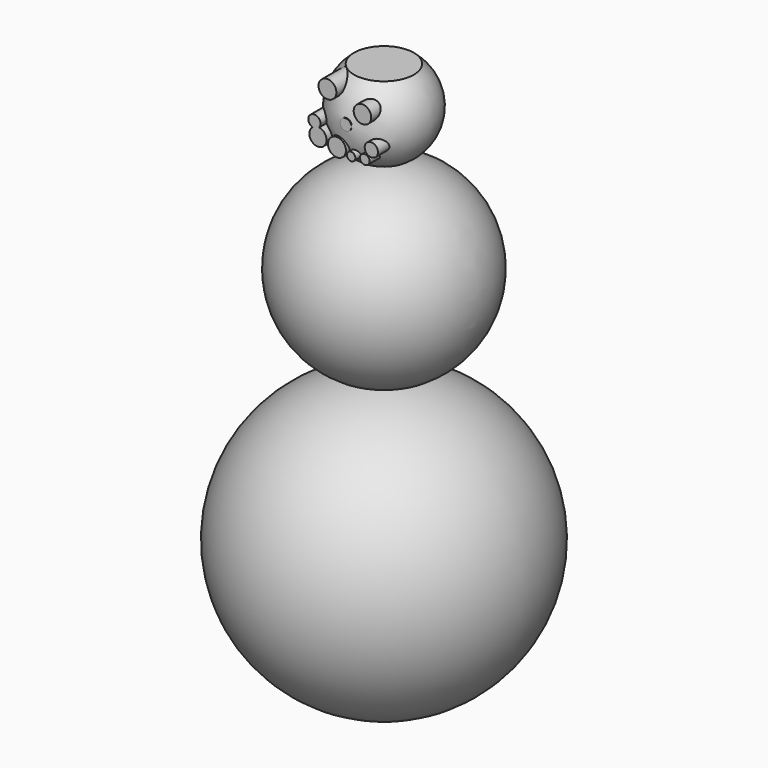
from build123d import *

# Parameters (mm, degrees)
F2_R     = 2.3340680492
F2_R_2   = 2.3765081856
F2_R_3   = 1.2745108739
F2_R_4   = 1.1178169875
F2_R_5   = 2.3922293989
F2_R_6   = 1.767423745
F3_DEPTH = 12.7
F4_R     = 1.4997579314
F5_DEPTH = 12.7


with BuildPart() as f1:
    # F0 (on Front) → F1 (revolve)
    with BuildSketch(Plane.XZ):
        with BuildLine():
            Line((0, 101.6), (0, 88.9))
            ThreePointArc((0, 88.9), (1.3241588609, 88.9692200038), (2.6338833467, 89.1761254628))
            ThreePointArc((2.6338833467, 89.1761254628), (12.3538464369, 98.6550928344), (7.9553518202, 111.4996150136))
            Line((7.9553518202, 111.4996150136), (0, 111.4996150136))
            Line((0, 111.4996150136), (0, 101.6))
        make_face()
        with BuildLine():
            Line((0, 63.5), (0, 38.1))
            ThreePointArc((0, 38.1), (1.6292774194, 38.1523086832), (3.2518441808, 38.3090192842))
            ThreePointArc((3.2518441808, 38.3090192842), (25.3980950451, 63.8110756831), (2.6338833467, 88.7630690637))
            ThreePointArc((2.6338833467, 88.7630690637), (1.3187201717, 88.8657441663), (0, 88.9))
            Line((0, 88.9), (0, 63.5))
        make_face()
        with BuildLine():
            Line((0, 0), (0, -38.1))
            ThreePointArc((0, -38.1), (38.0652275084, -1.6274073662), (3.2518441808, 37.9609735047))
            ThreePointArc((3.2518441808, 37.9609735047), (1.6274073662, 38.0652275084), (0, 38.1))
            Line((0, 38.1), (0, 0))
        make_face()
        with BuildLine():
            ThreePointArc((0, 38.1), (1.6274073662, 38.0652275084), (3.2518441808, 37.9609735047))
            Line((3.2518441808, 37.9609735047), (3.2518441808, 38.3090192842))
            ThreePointArc((3.2518441808, 38.3090192842), (1.6292774194, 38.1523086832), (0, 38.1))
        make_face()
        with BuildLine():
            ThreePointArc((0, 88.9), (1.3187201717, 88.8657441663), (2.6338833467, 88.7630690637))
            Line((2.6338833467, 88.7630690637), (2.6338833467, 89.1761254628))
            ThreePointArc((2.6338833467, 89.1761254628), (1.3241588609, 88.9692200038), (0, 88.9))
        make_face()
    revolve(axis=Axis((0, 0, 82.55), (0, 0, 1)))

    # F2 (on Front) → F3 (join)
    with BuildSketch(Plane.XZ):
        with Locations((4.4365231879, 106.2612310052)):
            Circle(F2_R)
        with Locations((-4.890372511, 109.1067269444)):
            Circle(F2_R_2)
        with Locations((5.0688553602, 95.8277508616)):
            Circle(F2_R_3)
        with Locations((1.4329472324, 95.3535065055)):
            Circle(F2_R_4)
        with Locations((-2.361045219, 96.3020026684)):
            Circle(F2_R_5)
        with BuildLine():
            ThreePointArc((-8.8838324472, 98.8684339538), (-8.4015064273, 95.0106018582), (-5.117980782, 97.0924198627))
            ThreePointArc((-5.117980782, 97.0924198627), (-5.6877052972, 98.6083702193), (-7.1148409223, 99.3738605292))
            ThreePointArc((-7.1148409223, 99.3738605292), (-7.9210708341, 98.8472169947), (-8.8838324472, 98.8684339538))
        make_face()
        with BuildLine():
            ThreePointArc((-8.8838324472, 98.8684339538), (-7.9210708341, 98.8472169947), (-7.1148409223, 99.3738605292))
            ThreePointArc((-7.1148409223, 99.3738605292), (-8.0520311406, 99.3055776816), (-8.8838324472, 98.8684339538))
        make_face()
        with BuildLine():
            ThreePointArc((-8.8838324472, 98.8684339538), (-8.0520311406, 99.3055776816), (-7.1148409223, 99.3738605292))
            ThreePointArc((-7.1148409223, 99.3738605292), (-6.8370397391, 99.8603227191), (-6.740632268, 100.4121601582))
            ThreePointArc((-6.740632268, 100.4121601582), (-9.3194445123, 101.7328037136), (-8.8838324472, 98.8684339538))
        make_face()
        with Locations((6.8077677861, 98.6732468009)):
            Circle(F2_R_6)
    extrude(amount=F3_DEPTH)

    # F4 (on Front) → F5 (join)
    with BuildSketch(Plane.XZ):
        with Locations((0, 102.3487076163)):
            Circle(F4_R)
    extrude(amount=F5_DEPTH)


solid = f1.part
